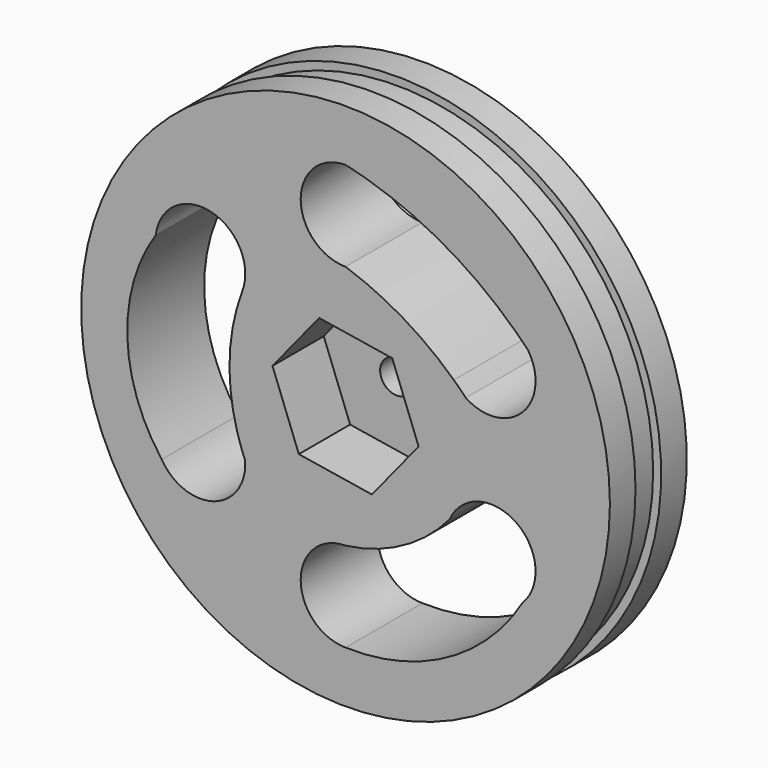
from build123d import *

# Parameters (mm, degrees)
F0_R      = 25.4
F1_DEPTH  = 1.5875
F2_R      = 26.19375
F3_DEPTH  = 3.175
F4_R      = 26.19375
F5_DEPTH  = 3.175
F7_DEPTH  = 38.1
F9_DEPTH  = 6.35
F10_R     = 1.651
F11_DEPTH = 25.4


with BuildPart() as f1:
    # F0 (on Front) → F1 (new body, symmetric)
    with BuildSketch(Plane.XZ):
        Circle(F0_R)
    extrude(amount=F1_DEPTH, both=True)

    # F2 (on face) → F3 (join)
    with BuildSketch(Plane.XZ.offset(1.5875)):
        Circle(F2_R)
    extrude(amount=F3_DEPTH)

    # F4 (on face) → F5 (join)
    with BuildSketch(Plane(origin=(0, 1.5875, 0), x_dir=(-1, 0, 0), z_dir=(0, 1, 0))):
        Circle(F4_R)
    extrude(amount=F5_DEPTH)

    # F6 (on face) → F7 (cut, symmetric)
    with BuildSketch(Plane(origin=(0, 4.7625, 0), x_dir=(-1, 0, 0), z_dir=(0, 1, 0))):
        with BuildLine():
            ThreePointArc((-17.552633, -11.419258), (-10.090636, -18.630629), (0, -21.052268))
            ThreePointArc((0, -21.052268), (4.445, -16.607268), (0, -12.162268))
            ThreePointArc((0, -12.162268), (-5.690238, -10.297309), (-10.319898, -6.49953))
            ThreePointArc((-10.319898, -6.49953), (-16.882294, -4.628293), (-17.552633, -11.419258))
        make_face()
        with BuildLine():
            ThreePointArc((10.231966, 6.712214), (11.485159, 0.501891), (10.718335, -5.787035))
            ThreePointArc((10.718335, -5.787035), (10.366031, -6.884623), (9.950625, -7.959916))
            ThreePointArc((9.950625, -7.959916), (13.047399, -12.543448), (18.211526, -10.560884))
            ThreePointArc((18.211526, -10.560884), (21.619656, -0.962225), (18.79669, 8.824525))
            ThreePointArc((18.79669, 8.824525), (13.317942, 12.619318), (10.231966, 6.712214))
        make_face()
        with BuildLine():
            ThreePointArc((-10.721463, 5.782488), (-5.701405, 9.544893), (0, 12.162268))
            ThreePointArc((0, 12.162268), (4.445, 16.607268), (0, 21.052268))
            ThreePointArc((0, 21.052268), (-1.096134, 20.782721), (-2.183325, 20.479104))
            ThreePointArc((-2.183325, 20.479104), (-10.013079, 17.11314), (-16.838004, 12.008714))
            ThreePointArc((-16.838004, 12.008714), (-17.468207, 11.394684), (-18.083289, 10.765508))
            ThreePointArc((-18.083289, 10.765508), (-17.523515, 5.158655), (-11.915992, 4.605625))
            ThreePointArc((-11.915992, 4.605625), (-11.32708, 5.202535), (-10.721463, 5.782488))
        make_face()
    extrude(amount=F7_DEPTH, both=True, mode=Mode.SUBTRACT)

    # F8 (on face) → F9 (cut)
    with BuildSketch(Plane.XZ.offset(4.7625)):
        Polygon((2.611876, -6.851382), (7.239409, -1.16374), (4.627533, 5.687642), (-2.611876, 6.851382), (-7.239409, 1.16374), (-4.627533, -5.687642), align=None)
    extrude(amount=-F9_DEPTH, mode=Mode.SUBTRACT)

    # F10 (on face) → F11 (cut)
    with BuildSketch(Plane(origin=(0, 4.7625, 0), x_dir=(-1, 0, 0), z_dir=(0, 1, 0))):
        Circle(F10_R)
    extrude(amount=-F11_DEPTH, mode=Mode.SUBTRACT)


solid = f1.part
